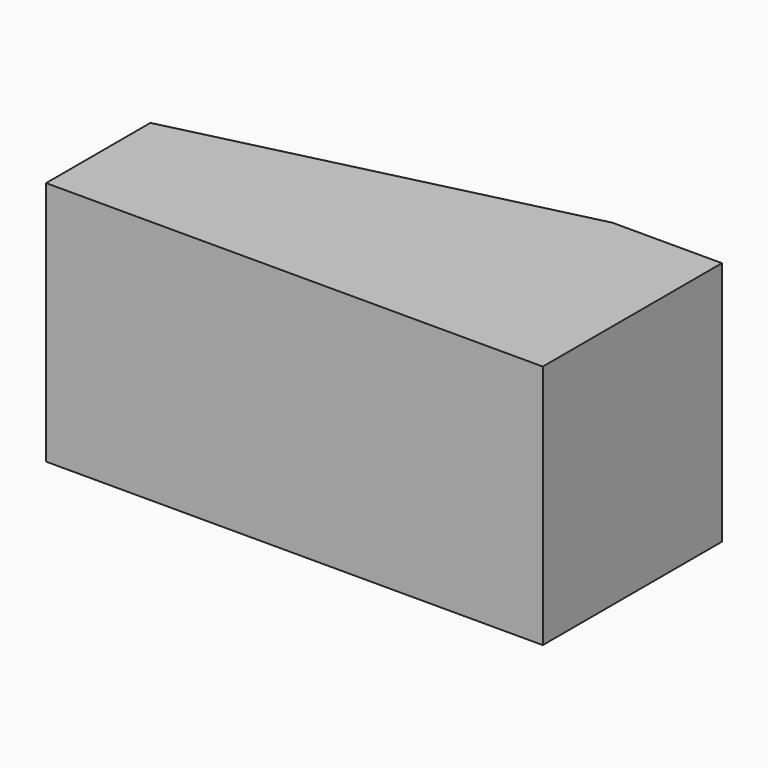
from build123d import *

# Parameters (mm, degrees)
F1_DEPTH      = 59.25
F1_DEPTH_BACK = 59.25


with BuildPart() as f1:
    # F0 (on Top) → F1 (new body, two sides)
    with BuildSketch(Plane.XY) as f1_sk:
        Polygon((0, -108.2), (0, 0), (-53, 0), (-240, -45.2), (-240, -108.2), align=None)
    extrude(amount=F1_DEPTH)
    extrude(f1_sk.sketch, amount=-F1_DEPTH_BACK)


solid = f1.part
